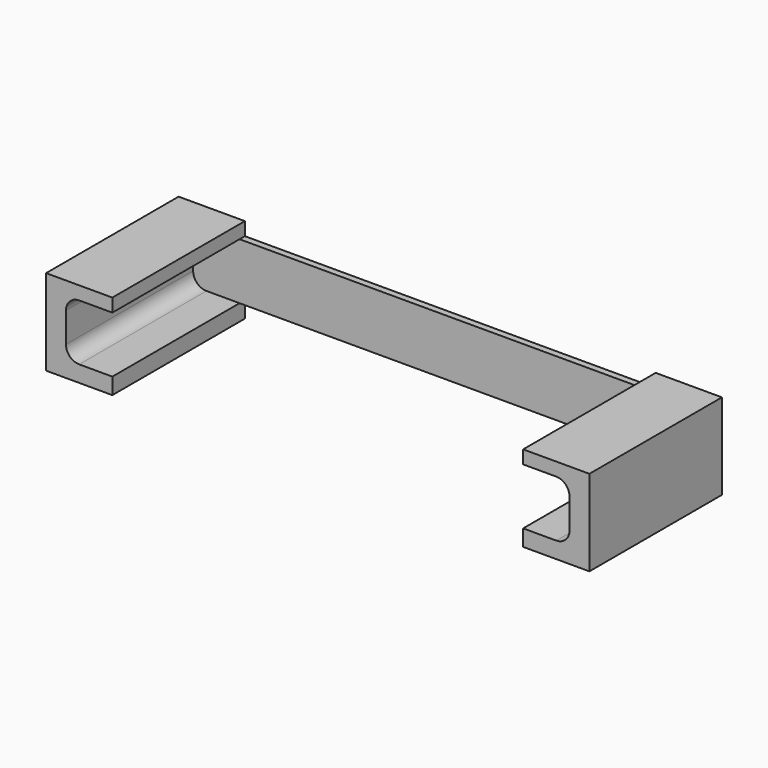
from build123d import *

# Parameters (mm, degrees)
F1_DEPTH = 25
F2_DEPTH = 1


with BuildPart() as f1:
    # F0 (on Front) → F1 (new body)
    with BuildSketch(Plane.XZ):
        with BuildLine():
            Line((-69, -2.463747), (-69, 0))
            Line((-69, 0), (-74, 0))
            ThreePointArc((-74, 0), (-75.414214, 0.585786), (-76, 2))
            Line((-76, 2), (-76, 6.5))
            ThreePointArc((-76, 6.5), (-75.414214, 7.914214), (-74, 8.5))
            Line((-74, 8.5), (-69, 8.5))
            Line((-69, 8.5), (-69, 10.5))
            Line((-69, 10.5), (-79, 10.5))
            Line((-79, 10.5), (-79, -2.463747))
            Line((-79, -2.463747), (-69, -2.463747))
        make_face()
        with BuildLine():
            Line((-2, 0), (-7, 0))
            Line((-7, 0), (-7, -2.463747))
            Line((-7, -2.463747), (3, -2.463747))
            Line((3, -2.463747), (3, 10.5))
            Line((3, 10.5), (-7, 10.5))
            Line((-7, 10.5), (-7, 8.5))
            Line((-7, 8.5), (-2, 8.5))
            ThreePointArc((-2, 8.5), (-0.585786, 7.914214), (0, 6.5))
            Line((0, 6.5), (0, 2))
            ThreePointArc((0, 2), (-0.585786, 0.585786), (-2, 0))
        make_face()
    extrude(amount=F1_DEPTH)


with BuildPart() as f2:
    # F0 (on Front) → F2 (new body)
    with BuildSketch(Plane.XZ):
        with BuildLine():
            Line((-69, 0), (-38, 0))
            Line((-38, 0), (-38, 8.5))
            Line((-38, 8.5), (-69, 8.5))
            Line((-69, 8.5), (-74, 8.5))
            ThreePointArc((-74, 8.5), (-75.414214, 7.914214), (-76, 6.5))
            Line((-76, 6.5), (-76, 2))
            ThreePointArc((-76, 2), (-75.414214, 0.585786), (-74, 0))
            Line((-74, 0), (-69, 0))
        make_face()
        with BuildLine():
            Line((-38, 8.5), (-38, 0))
            Line((-38, 0), (-7, 0))
            Line((-7, 0), (-2, 0))
            ThreePointArc((-2, 0), (-0.585786, 0.585786), (0, 2))
            Line((0, 2), (0, 6.5))
            ThreePointArc((0, 6.5), (-0.585786, 7.914214), (-2, 8.5))
            Line((-2, 8.5), (-7, 8.5))
            Line((-7, 8.5), (-38, 8.5))
        make_face()
    extrude(amount=F2_DEPTH)


solid = Compound([f1.part, f2.part])
